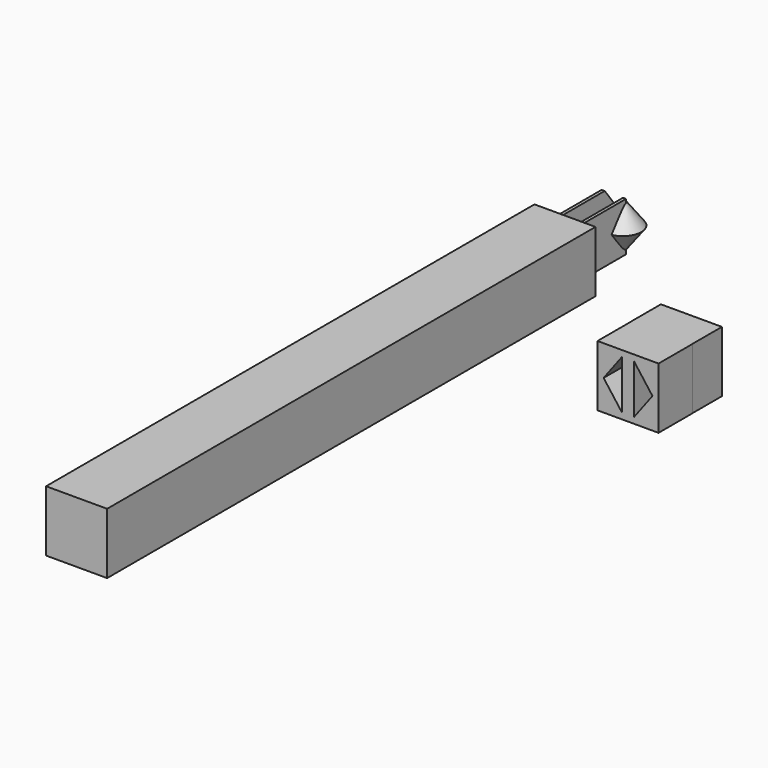
from build123d import *

# Parameters (mm, degrees)
F0_W          = 25.4
F0_H          = 25.4
F1_DEPTH      = 254
F4_W          = 1.27
F4_H          = 20.32
F5_DEPTH      = 25.4
F6_ANGLE_BACK = 90
F6_ANGLE      = 180
F7_ANGLE_BACK = 90
F7_ANGLE      = 180
F8_W          = 25.4
F8_H          = 25.4
F9_DEPTH      = 17.78
F10_W         = 25.4
F10_H         = 25.4
F11_DEPTH     = 15.24


with BuildPart() as f1:
    # F0 (on Front) → F1 (new body)
    with BuildSketch(Plane.XZ):
        with Locations((-40.4630722478, 29.6600502176)):
            Rectangle(F0_W, F0_H)
    extrude(amount=F1_DEPTH)

    # F4 (on face) → F5 (join)
    with BuildSketch(Plane(origin=(0, 0, 0), x_dir=(-1, 0, 0), z_dir=(0, 1, 0))):
        with Locations((36.0180722478, 29.6600502176)):
            Rectangle(F4_W, F4_H)
        with Locations((44.9080722478, 29.6600502176)):
            Rectangle(F4_W, F4_H)
    extrude(amount=F5_DEPTH)

    # F3 (on offset) → F6 (revolve)
    with BuildSketch(Plane.XZ.offset(-25.4), mode=Mode.PRIVATE) as f6_sk:
        Polygon((-51.8930722478, 29.7274123877), (-44.2730722478, 19.5674123877), (-44.2730722478, 39.8874123877), align=None)
    revolve(f6_sk.sketch.rotate(Axis((-44.2730722478, 25.4, 29.7274123877), (0, 0, 1)), -F6_ANGLE_BACK), axis=Axis((-44.2730722478, 25.4, 29.7274123877), (0, 0, 1)), revolution_arc=F6_ANGLE)

    # F3 (on offset) → F7 (revolve)
    with BuildSketch(Plane.XZ.offset(-25.4), mode=Mode.PRIVATE) as f7_sk:
        Polygon((-36.6530722478, 19.5674123877), (-29.0330722478, 29.7274123877), (-36.6530722478, 39.8874123877), align=None)
    revolve(f7_sk.sketch.rotate(Axis((-36.6530722478, 25.4, 29.7274123877), (0, 0, -1)), -F7_ANGLE_BACK), axis=Axis((-36.6530722478, 25.4, 29.7274123877), (0, 0, -1)), revolution_arc=F7_ANGLE)


with BuildPart() as f9:
    # F8 (on Front) → F9 (new body)
    with BuildSketch(Plane.XZ):
        Rectangle(F8_W, F8_H)
        Polygon((-2.54, 10.16), (-2.54, -10.16), (-10.16, 0), align=None, mode=Mode.SUBTRACT)
        Polygon((2.54, 10.16), (10.16, 0), (2.54, -10.16), align=None, mode=Mode.SUBTRACT)
    extrude(amount=F9_DEPTH)

    # F10 (on Front) → F11 (join)
    with BuildSketch(Plane.XZ):
        with Locations((-0.0493521808, 0)):
            Rectangle(F10_W, F10_H)
        Polygon((-2.54, 10.16), (-2.54, -10.16), (-11.4793521808, 0), align=None, mode=Mode.SUBTRACT)
        Polygon((2.54, 10.16), (11.3806478192, 0), (2.54, -10.16), align=None, mode=Mode.SUBTRACT)
    extrude(amount=-F11_DEPTH)


solid = Compound([f1.part, f9.part])
